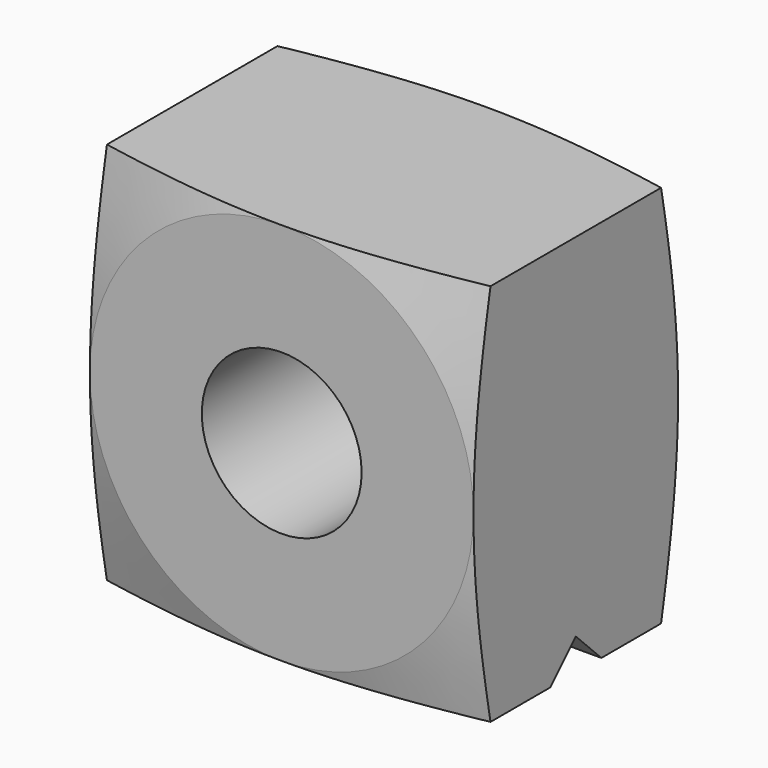
from build123d import *

# Parameters (mm, degrees)
F0_R     = 3.96875
F1_DEPTH = 12.7
F3_DEPTH = 19.05


with BuildPart() as f1:
    # F0 (on Front) → F1 (new body)
    with BuildSketch(Plane.XZ):
        with BuildLine():
            Line((-9.525, 0), (-9.525, -9.525))
            Line((-9.525, -9.525), (0, -9.525))
            ThreePointArc((0, -9.525), (-6.7351920908, -6.7351920908), (-9.525, 0))
        make_face()
        with BuildLine():
            ThreePointArc((9.525, 0), (6.7351920908, -6.7351920908), (0, -9.525))
            Line((0, -9.525), (9.525, -9.525))
            Line((9.525, -9.525), (9.525, 0))
        make_face()
        with BuildLine():
            ThreePointArc((-9.525, 0), (-6.7351920908, -6.7351920908), (0, -9.525))
            ThreePointArc((0, -9.525), (6.7351920908, -6.7351920908), (9.525, 0))
            ThreePointArc((9.525, 0), (6.7351920908, 6.7351920908), (0, 9.525))
            ThreePointArc((0, 9.525), (-6.7351920908, 6.7351920908), (-9.525, 0))
        make_face()
        Circle(F0_R, mode=Mode.SUBTRACT)
        with BuildLine():
            Line((-9.525, 9.525), (-9.525, 0))
            ThreePointArc((-9.525, 0), (-6.7351920908, 6.7351920908), (0, 9.525))
            Line((0, 9.525), (-9.525, 9.525))
        make_face()
        with BuildLine():
            ThreePointArc((0, 9.525), (6.7351920908, 6.7351920908), (9.525, 0))
            Line((9.525, 0), (9.525, 9.525))
            Line((9.525, 9.525), (0, 9.525))
        make_face()
    extrude(amount=F1_DEPTH)

    # F2 (on face) → F3 (cut)
    with BuildSketch(Plane.YZ.offset(9.525)):
        Polygon((-4.7625, -9.525), (-6.35, -7.9375), (-7.9375, -9.525), align=None)
    extrude(amount=-F3_DEPTH, mode=Mode.SUBTRACT)

    # F5 (on mid) → F6 (revolve, cut)
    with BuildSketch(Plane.YZ):
        Polygon((-12.7, 20.5410033949), (-12.7, 9.525), (-9.7482707865, 20.5410033949), align=None)
        Polygon((-2.9517292135, 20.5410033949), (0, 9.525), (0, 20.5410033949), align=None)
    revolve(axis=Axis((0, 0, 0), (0, 1, 0)), mode=Mode.SUBTRACT)


solid = f1.part
